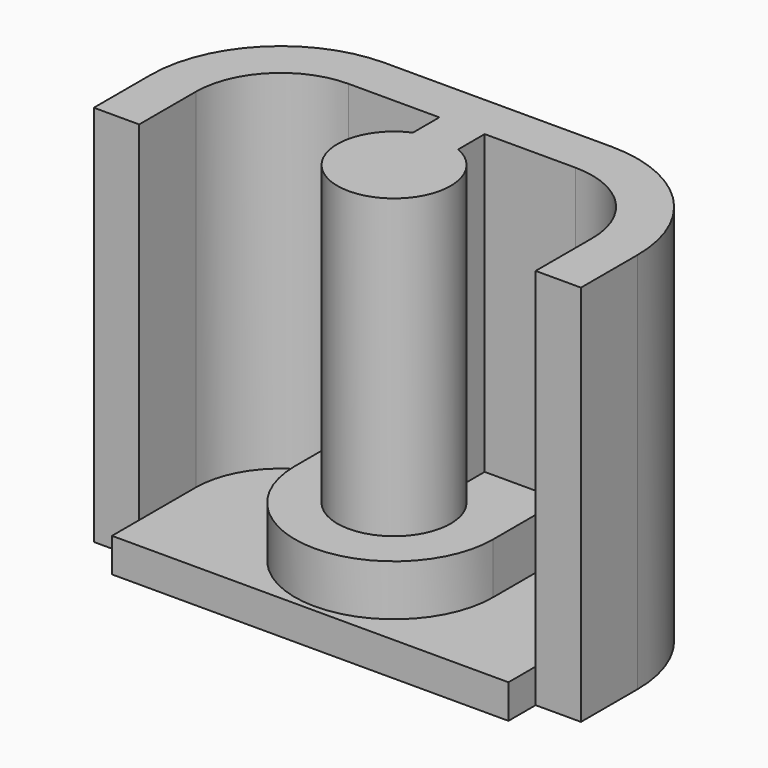
from build123d import *

# Parameters (mm, degrees)
F1_DEPTH = 13.5
F3_DEPTH = 1.2
F5_DEPTH = 1.8


with BuildPart() as f1:
    # F0 (on Top) → F1 (new body)
    with BuildSketch(Plane.XY):
        with BuildLine():
            Line((-8.6, 0), (-8.6, -2.5))
            Line((-8.6, -2.5), (-7, -2.5))
            Line((-7, -2.5), (-7, 0))
            ThreePointArc((-7, 0), (-6.12132, 2.12132), (-4, 3))
            Line((-4, 3), (-0.8, 3))
            Line((-0.8, 3), (-0.8, 1.83303))
            ThreePointArc((-0.8, 1.83303), (0, -2), (0.8, 1.83303))
            Line((0.8, 1.83303), (0.8, 3))
            Line((0.8, 3), (4, 3))
            ThreePointArc((4, 3), (6.12132, 2.12132), (7, 0))
            Line((7, 0), (7, -2.5))
            Line((7, -2.5), (8.6, -2.5))
            Line((8.6, -2.5), (8.6, 0))
            ThreePointArc((8.6, 0), (7.252691, 3.252691), (4, 4.6))
            Line((4, 4.6), (-4, 4.6))
            ThreePointArc((-4, 4.6), (-7.252691, 3.252691), (-8.6, 0))
        make_face()
    extrude(amount=F1_DEPTH)

    # F2 (on face) → F3 (join)
    with BuildSketch(Plane(origin=(0, 0, 0), x_dir=(1, 0, 0), z_dir=(0, 0, -1))):
        with BuildLine():
            Line((-7, 2.5), (-8.6, 2.5))
            Line((-8.6, 2.5), (-8.6, 0))
            ThreePointArc((-8.6, 0), (-7.252691, -3.252691), (-4, -4.6))
            Line((-4, -4.6), (4, -4.6))
            ThreePointArc((4, -4.6), (7.252691, -3.252691), (8.6, 0))
            Line((8.6, 0), (8.6, 2.5))
            Line((8.6, 2.5), (7, 2.5))
            Line((7, 2.5), (7, 3.7))
            Line((7, 3.7), (-7, 3.7))
            Line((-7, 3.7), (-7, 2.5))
        make_face()
    extrude(amount=-F3_DEPTH)

    # F4 (on face) → F5 (join)
    with BuildSketch(Plane.XY.offset(1.2)):
        with BuildLine():
            Line((-3.5, 3), (-3.5, 0))
            ThreePointArc((-3.5, 0), (0, -3.5), (3.5, 0))
            Line((3.5, 0), (3.5, 3))
            Line((3.5, 3), (-3.5, 3))
        make_face()
    extrude(amount=F5_DEPTH)


solid = f1.part
